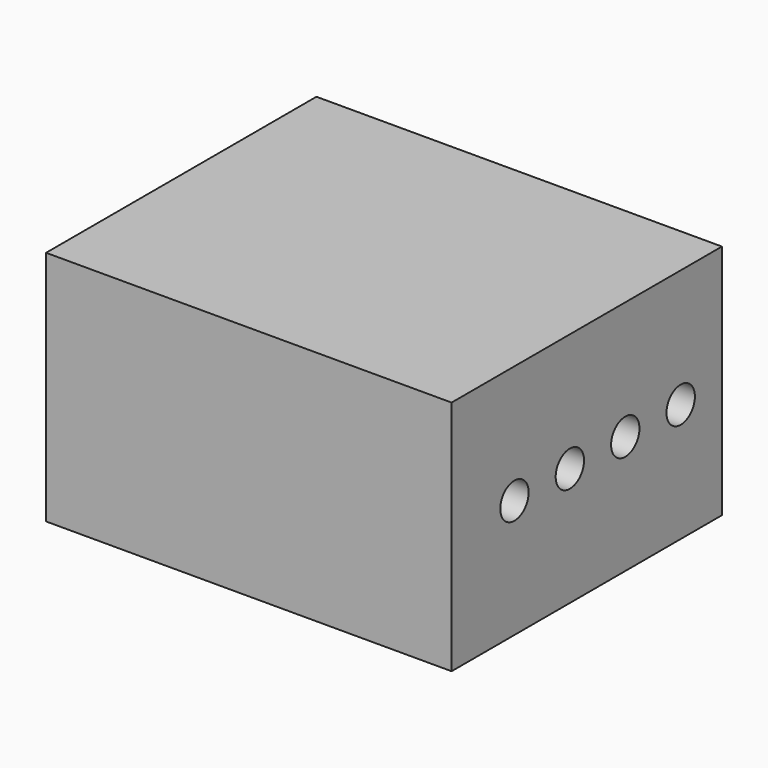
from build123d import *

# Parameters (mm, degrees)
F0_W     = 24
F0_H     = 14
F1_DEPTH = 20
F2_W     = 16
F2_H     = 8
F3_DEPTH = 18
F4_R     = 1.05
F5_DEPTH = 24.001


with BuildPart() as f1:
    # F0 (on Front) → F1 (new body)
    with BuildSketch(Plane.XZ):
        Rectangle(F0_W, F0_H)
    extrude(amount=F1_DEPTH)

    # F2 (on face) → F3 (cut)
    with BuildSketch(Plane(origin=(0, 0, 0), x_dir=(-1, 0, 0), z_dir=(0, 1, 0))):
        Rectangle(F2_W, F2_H)
    extrude(amount=-F3_DEPTH, mode=Mode.SUBTRACT)

    # F4 (on face) → F5 (cut, through all)
    with BuildSketch(Plane.YZ.offset(12)):
        with Locations((-15.35, 0)):
            Circle(F4_R)
        with Locations((-11.25, 0)):
            Circle(F4_R)
        with Locations((-3.05, 0)):
            Circle(F4_R)
        with Locations((-7.15, 0)):
            Circle(F4_R)
    extrude(amount=-F5_DEPTH, mode=Mode.SUBTRACT)


solid = f1.part
